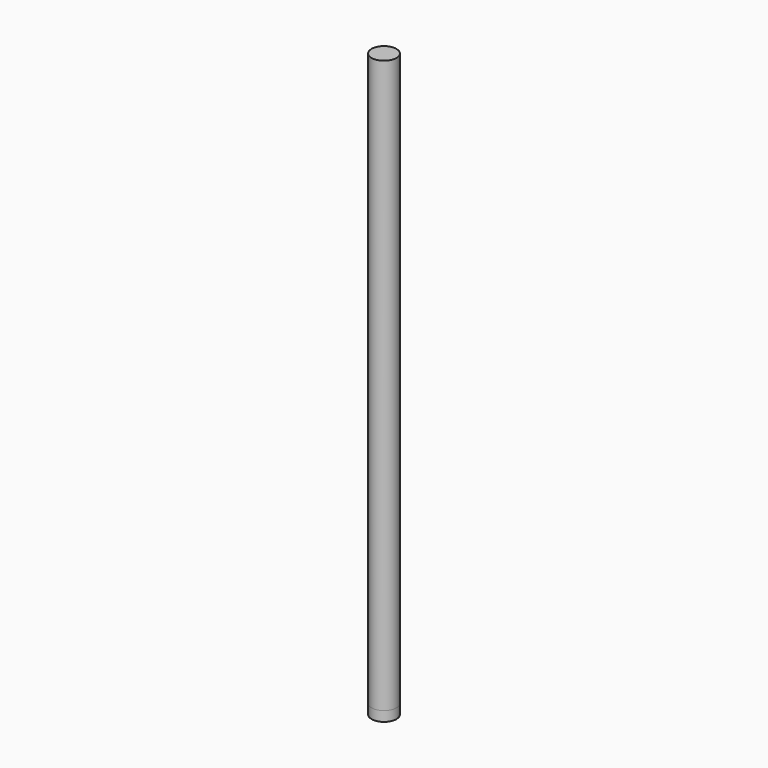
from build123d import *

# Parameters (mm, degrees)
F0_W      = 0.75
F0_H      = 34.575
F1_FACE_R = 0.75
F2_DEPTH  = 0.6


with BuildPart() as f1:
    # F0 (on Front) → F1 (revolve)
    with BuildSketch(Plane.XZ):
        with Locations((-0.375, 17.2875)):
            Rectangle(F0_W, F0_H)
    revolve(axis=Axis((0, 0, 17.2875), (0, 0, 1)))

    # F1_face (on face) → F2 (join)
    with BuildSketch(Plane(origin=(0, 0, 0), x_dir=(1, 0, 0), z_dir=(0, 0, -1))):
        Circle(F1_FACE_R)
    extrude(amount=F2_DEPTH)


solid = f1.part
